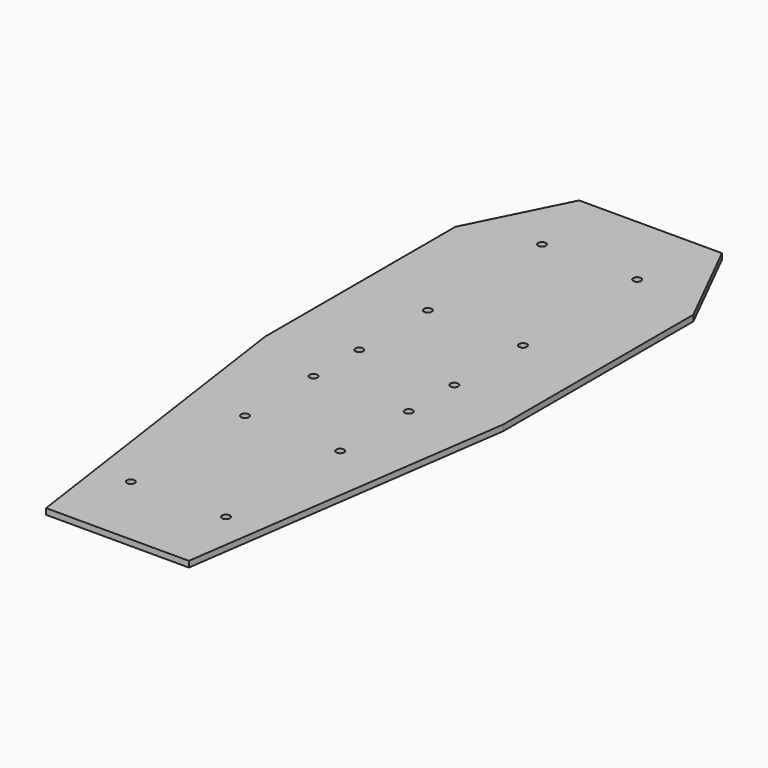
from build123d import *

# Parameters (mm, degrees)
F1_DEPTH = 3.175
F3_D     = 4.2


with BuildPart() as f1:
    # F0 (on Top) → F1 (new body)
    with BuildSketch(Plane.XY):
        Polygon((38.1, -177.8), (63.5, 0), (63.5, 127), (38.1, 177.8), (-38.1, 177.8), (-63.5, 127), (-63.5, 0), (-38.1, -177.8), align=None)
    extrude(amount=F1_DEPTH)

    # F3 (through all)
    with Locations(Plane.XY.offset(3.175)):
        with Locations((-25.4, 137.16), (25.4, 137.16), (25.4, 60.96), (-25.4, 60.96), (-25.4, 15.24), (25.4, 15.24), (25.4, -60.96), (-25.4, -60.96), (-25.4, -137.16), (25.4, -137.16), (-25.4, -15.24), (25.4, -15.24)):
            Hole(F3_D / 2)


solid = f1.part
